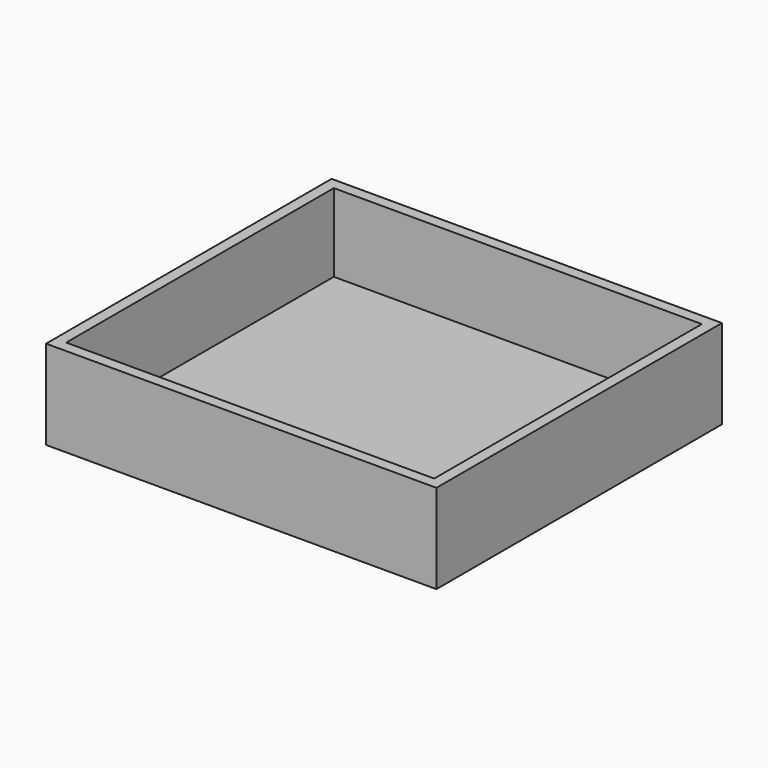
from build123d import *

# Parameters (mm, degrees)
F0_W     = 444.5
F0_H     = 406.4
F0_W_2   = 419.1
F0_H_2   = 381
F1_DEPTH = 63.5
F2_W     = 419.1
F2_H     = 381
F3_DEPTH = 12.7
F4_W     = 419.1
F4_H     = 381
F5_DEPTH = 6.35
F6_DEPTH = 38.1


with BuildPart() as f1:
    # F0 (on Top) → F1 (new body)
    with BuildSketch(Plane.XY):
        Rectangle(F0_W, F0_H)
        Rectangle(F0_W_2, F0_H_2, mode=Mode.SUBTRACT)
    extrude(amount=F1_DEPTH)

    # F2 (on face) → F3 (join)
    with BuildSketch(Plane(origin=(0, 0, 0), x_dir=(1, 0, 0), z_dir=(0, 0, -1))):
        Rectangle(F2_W, F2_H)
    extrude(amount=-F3_DEPTH)

    # F4 (on face) → F5 (cut)
    with BuildSketch(Plane(origin=(0, 0, 0), x_dir=(1, 0, 0), z_dir=(0, 0, -1))):
        Rectangle(F4_W, F4_H)
    extrude(amount=-F5_DEPTH, mode=Mode.SUBTRACT)

    # F6 (add): a face of the model
    f6_faces = [f1.faces().sort_by_distance(p)[0] for p in [
        (216.2271999037, 0, 63.5),
    ]]
    extrude(f6_faces, amount=F6_DEPTH)


solid = f1.part
